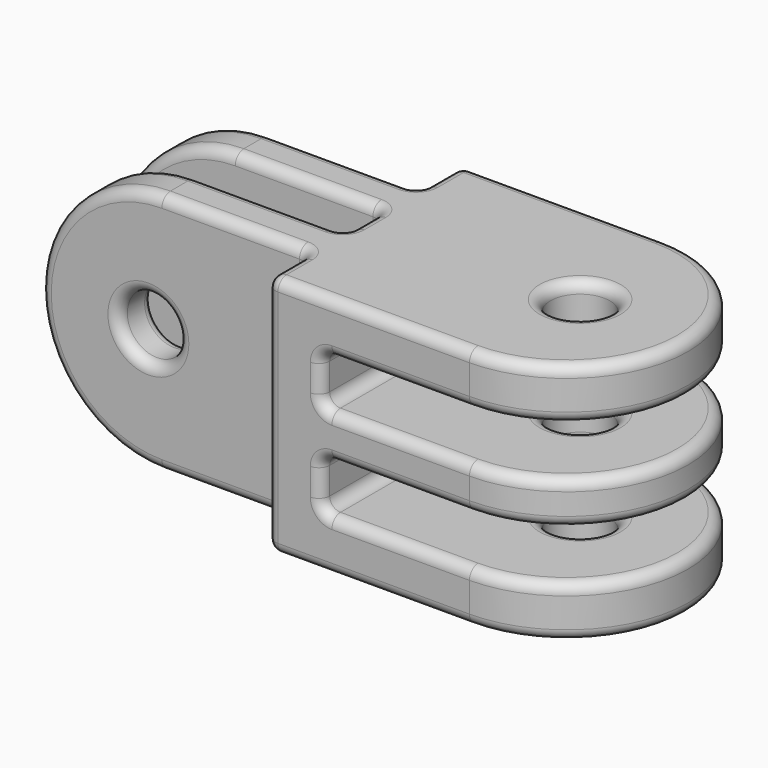
from build123d import *

# Parameters (mm, degrees)
F1_R     = 2.75
F2_DEPTH = 11.25
F3_W     = 25
F3_H     = 4.5
F3_W_2   = 320.0411629677
F3_H_2   = 5
F4_DEPTH = 25
F5_W     = 25
F5_H     = 4.5
F6_DEPTH = 25
F7_R     = 2.75
F8_DEPTH = 25
F9_R     = 1


with BuildPart() as f2:
    # F1 (on Front) → F2 (new body, symmetric)
    with BuildSketch(Plane.XZ):
        with BuildLine():
            Line((-43.75, -11.25), (0, -11.25))
            Line((0, -11.25), (0, 11.25))
            Line((0, 11.25), (-43.75, 11.25))
            ThreePointArc((-43.75, 11.25), (-55, 0), (-43.75, -11.25))
        make_face()
        with Locations((-45, 0)):
            Circle(F1_R, mode=Mode.SUBTRACT)
    extrude(amount=F2_DEPTH, both=True)

    # F3 (on Top) → F4 (cut, symmetric)
    with BuildSketch(Plane.XY):
        with Locations((-42.5, 0)):
            Rectangle(F3_W, F3_H)
        with Locations((-190.0205814838, 8.75)):
            Rectangle(F3_W_2, F3_H_2)
        with Locations((-42.5, -8.75)):
            Rectangle(F3_W, F3_H_2)
    extrude(amount=F4_DEPTH, both=True, mode=Mode.SUBTRACT)

    # F5 (on Front) → F6 (cut, symmetric)
    with BuildSketch(Plane.XZ):
        with Locations((-12.5, 4.25)):
            Rectangle(F5_W, F5_H)
        with Locations((-12.5, -4.25)):
            Rectangle(F5_W, F5_H)
    extrude(amount=F6_DEPTH, both=True, mode=Mode.SUBTRACT)

    # F7 (on Top) → F8 (cut, symmetric)
    with BuildSketch(Plane.XY):
        with BuildLine():
            ThreePointArc((-11.25, 11.25), (0, 0), (-11.25, -11.25))
            Line((-11.25, -11.25), (10, -11.25))
            Line((10, -11.25), (10, 11.25))
            Line((10, 11.25), (-11.25, 11.25))
        make_face()
        with Locations((-10, 0)):
            Circle(F7_R)
    extrude(amount=F8_DEPTH, both=True, mode=Mode.SUBTRACT)

    # F9
    f9_edges = [f2.edges().sort_by_distance(p)[0] for p in [
        (-30, -11.25, 0),
        (-20.625, -11.25, 11.25),
        (-11.25, -11.25, 8.875),
        (-18.125, -11.25, 6.5),
        (-25, -11.25, 4.25),
        (-18.125, -11.25, 2),
        (-11.25, -11.25, 0),
        (-18.125, -11.25, -2),
        (-25, -11.25, -4.25),
        (-18.125, -11.25, -6.5),
        (-11.25, -11.25, -8.875),
        (-20.625, -11.25, -11.25),
        (-36.875, -2.25, 11.25),
        (-55, -2.25, 0),
        (-36.875, -2.25, -11.25),
        (-30, -2.25, 0),
        (-47.75, -2.25, 0),
        (-30, 2.25, 0),
        (-36.875, 2.25, -11.25),
        (-55, 2.25, 0),
        (-36.875, 2.25, 11.25),
        (-47.75, 2.25, 0),
        (-11.25, 11.25, 8.875),
        (-18.125, 11.25, 6.5),
        (-25, 11.25, 4.25),
        (-18.125, 11.25, 2),
        (-11.25, 11.25, 0),
        (-18.125, 11.25, -2),
        (-25, 11.25, -4.25),
        (-18.125, 11.25, -6.5),
        (-11.25, 11.25, -8.875),
        (-20.625, 11.25, -11.25),
        (-30, 11.25, 0),
        (-20.625, 11.25, 11.25),
        (-30, -6.25, 0),
        (-36.875, -6.25, -11.25),
        (-55, -6.25, 0),
        (-36.875, -6.25, 11.25),
        (-47.75, -6.25, 0),
        (-36.875, 6.25, -11.25),
        (-55, 6.25, 0),
        (-36.875, 6.25, 11.25),
        (-30, 6.25, 0),
        (-47.75, 6.25, 0),
        (0, 0, -2),
        (0, 0, 2),
        (-25, 0, 6.5),
        (-25, 0, 2),
        (-25, 0, -2),
        (-25, 0, -6.5),
        (-30, 8.75, -11.25),
        (0, 0, -11.25),
        (-30, -8.75, -11.25),
        (-43.75, -4.25, -11.25),
        (-30, 0, -11.25),
        (-43.75, 4.25, -11.25),
        (-12.75, 0, -11.25),
        (0, 0, -6.5),
        (-12.75, 0, -6.5),
        (-12.75, 0, 2),
        (0, 0, 11.25),
        (-30, 8.75, 11.25),
        (-43.75, 4.25, 11.25),
        (-30, 0, 11.25),
        (-43.75, -4.25, 11.25),
        (-30, -8.75, 11.25),
        (-12.75, 0, 11.25),
        (0, 0, 6.5),
        (-12.75, 0, 6.5),
        (-12.75, 0, -2),
    ]]
    fillet(f9_edges, radius=F9_R)


solid = f2.part
